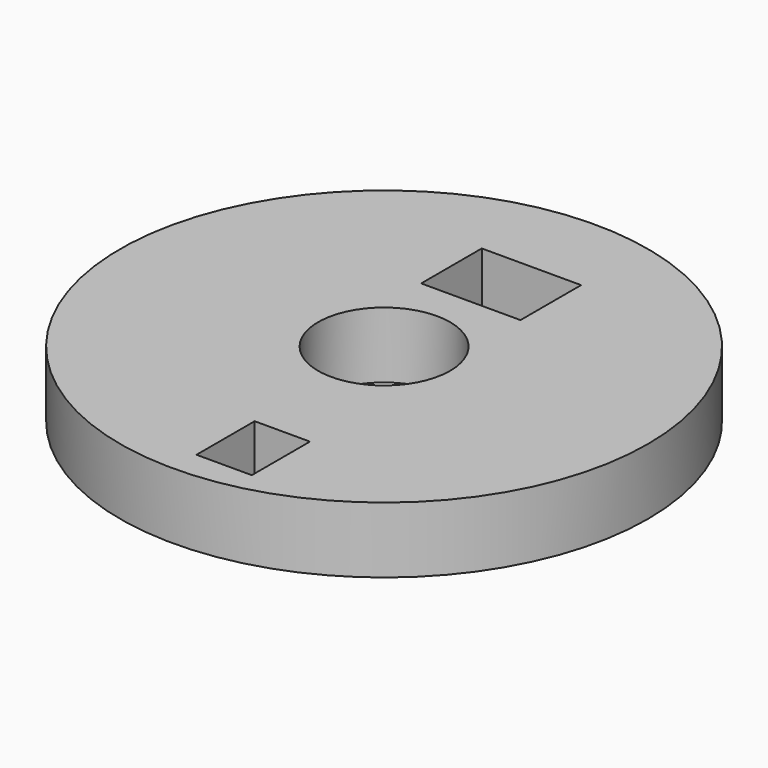
from build123d import *

# Parameters (mm, degrees)
F0_R     = 50.8
F0_R_2   = 12.7
F0_W     = 10.641724
F0_H     = 13.991895
F0_W_2   = 19.11569
F0_H_2   = 14.583101
F1_DEPTH = 12.7


with BuildPart() as f1:
    # F0 (on Top) → F1 (new body)
    with BuildSketch(Plane.XY):
        Circle(F0_R)
        Circle(F0_R_2, mode=Mode.SUBTRACT)
        with Locations((5.320862, -38.132845)):
            Rectangle(F0_W, F0_H, mode=Mode.SUBTRACT)
        with Locations((1.083879, 26.801378)):
            Rectangle(F0_W_2, F0_H_2, mode=Mode.SUBTRACT)
    extrude(amount=F1_DEPTH)


solid = f1.part
